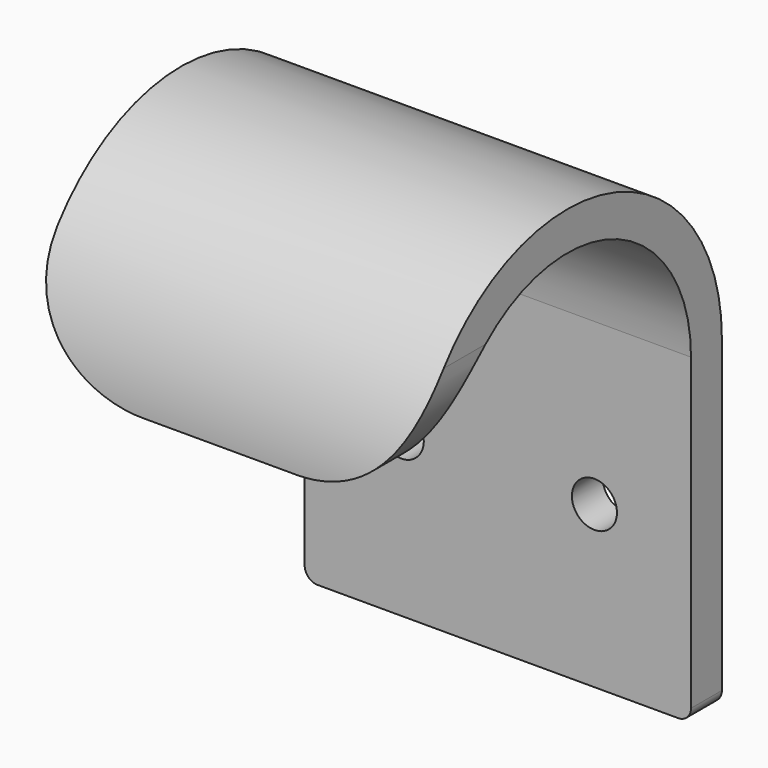
from build123d import *

# Parameters (mm, degrees)
PAD002_DEPTH            = 30
SKETCH005_R             = 1.75
POCKET009_DEPTH         = 33.001
FILLET009_R             = 9
FILLET010_R             = 1
BODY001_ROLL_ANGLE      = -90
BODY001_PLACEMENT_ANGLE = 90


with BuildPart() as part:
    # Sketch004 (on XY_Plane001 of Origin002) → Pad002 (new body)
    with BuildSketch(Plane.XY):
        with BuildLine():
            Line((0, 25), (-3, 25))
            Line((-3, 25), (-3, 0))
            ThreePointArc((-26.999998, 0.006802), (-15.003401, -12), (-3, 0))
            Line((-29.999998, 0.006802), (-26.999998, 0.006802))
            ThreePointArc((-29.999998, 0.006802), (-15.003401, -15), (0, 0))
            Line((0, 0), (0, 25))
        make_face()
    extrude(amount=PAD002_DEPTH)

    # Sketch005 (on Face2 of Pad002) → Pocket009 (cut, through all)
    with BuildSketch(Plane(origin=(-33, 0, 0), x_dir=(0, -1, 0), z_dir=(-1, 0, 0))):
        with Locations((-12.5, 7.5)):
            Circle(SKETCH005_R)
        with Locations((-12.5, 22.5)):
            Circle(SKETCH005_R)
    extrude(amount=-POCKET009_DEPTH, mode=Mode.SUBTRACT)

    # Fillet009
    fillet009_edges = [part.edges().sort_by_distance(p)[0] for p in [
        (-28.499998, 0.006802, 30),
        (-28.499998, 0.006802, 0),
    ]]
    fillet(fillet009_edges, radius=FILLET009_R)

    # Fillet010
    fillet010_edges = [part.edges().sort_by_distance(p)[0] for p in [
        (-1.5, 25, 30),
        (-1.5, 25, 0),
    ]]
    fillet(fillet010_edges, radius=FILLET010_R)


with BuildPart() as part_1:
    # Body001 roll: moved
    add(part.part.rotate(Axis((0, 0, 0), (1, 0, 0)), BODY001_ROLL_ANGLE))


with BuildPart() as part_2:
    # Body001 placement: moved
    add(part_1.part.moved(Location((15, -17.1, 25))).rotate(Axis((15, -17.1, 25), (0, 0, 1)), BODY001_PLACEMENT_ANGLE))


solid = part_2.part
